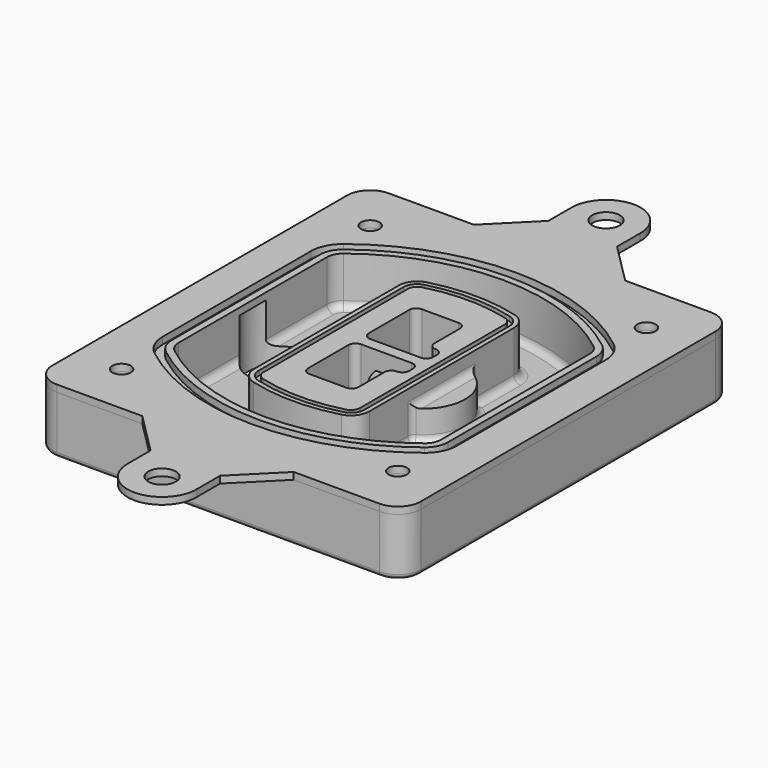
from build123d import *

# Parameters (mm, degrees)
F0_R      = 4
F1_DEPTH  = 25
F2_DEPTH  = 3
F3_DEPTH  = 18
F5_DEPTH  = 21
F6_DEPTH  = 2
F8_DEPTH  = 20
F9_DEPTH  = 16
F10_DEPTH = 25
F7_R      = 6
F7_R_2    = 4
F11_DEPTH = 6
F13_DEPTH = 9
F14_R     = 3
F15_R     = 2
F0_R_2    = 6
F16_DEPTH = 3


with BuildPart() as f1:
    # F0 (on Top) → F1 (new body)
    with BuildSketch(Plane.XY):
        with BuildLine():
            ThreePointArc((-80, -80), (-77.0710678119, -87.0710678119), (-70, -90))
            Line((-70, -90), (-32.9854514246, -90))
            Line((-32.9854514246, -90), (32.7771371112, -90))
            Line((32.7771371112, -90), (70, -90))
            ThreePointArc((70, -90), (77.0710678119, -87.0710678119), (80, -80))
            Line((80, -80), (80, 80))
            ThreePointArc((80, 80), (77.0710678119, 87.0710678119), (70, 90))
            Line((70, 90), (32.7771371112, 90))
            Line((32.7771371112, 90), (-32.9854514246, 90))
            Line((-32.9854514246, 90), (-70, 90))
            ThreePointArc((-70, 90), (-77.0710678119, 87.0710678119), (-80, 80))
            Line((-80, 80), (-80, -80))
        make_face()
        with Locations((-60, -67.5)):
            Circle(F0_R, mode=Mode.SUBTRACT)
        with Locations((60, -67.5)):
            Circle(F0_R, mode=Mode.SUBTRACT)
        with Locations((-60, 67.5)):
            Circle(F0_R, mode=Mode.SUBTRACT)
        with BuildLine():
            ThreePointArc((-64, 40.2934422872), (-62.5820384798, 46.4328484224), (-58.6153846154, 51.3286200352))
            ThreePointArc((-58.6153846154, 51.3286200352), (0, 71.5), (58.6153846154, 51.3286200352))
            ThreePointArc((58.6153846154, 51.3286200352), (62.5820384798, 46.4328484224), (64, 40.2934422872))
            Line((64, 40.2934422872), (64, -40.2934422872))
            ThreePointArc((64, -40.2934422872), (62.5820384798, -46.4328484224), (58.6153846154, -51.3286200352))
            ThreePointArc((58.6153846154, -51.3286200352), (0, -71.5), (-58.6153846154, -51.3286200352))
            ThreePointArc((-58.6153846154, -51.3286200352), (-62.5820384798, -46.4328484224), (-64, -40.2934422872))
            Line((-64, -40.2934422872), (-64, 40.2934422872))
        make_face(mode=Mode.SUBTRACT)
        with Locations((60, 67.5)):
            Circle(F0_R, mode=Mode.SUBTRACT)
        with BuildLine():
            ThreePointArc((58.6153846154, 51.3286200352), (0, 71.5), (-58.6153846154, 51.3286200352))
            ThreePointArc((-58.6153846154, 51.3286200352), (-62.5820384798, 46.4328484224), (-64, 40.2934422872))
            Line((-64, 40.2934422872), (-64, -40.2934422872))
            ThreePointArc((-64, -40.2934422872), (-62.5820384798, -46.4328484224), (-58.6153846154, -51.3286200352))
            ThreePointArc((-58.6153846154, -51.3286200352), (0, -71.5), (58.6153846154, -51.3286200352))
            ThreePointArc((58.6153846154, -51.3286200352), (62.5820384798, -46.4328484224), (64, -40.2934422872))
            Line((64, -40.2934422872), (64, 40.2934422872))
            ThreePointArc((64, 40.2934422872), (62.5820384798, 46.4328484224), (58.6153846154, 51.3286200352))
        make_face()
        with BuildLine():
            Line((-60, -40.2934422872), (-60, 40.2934422872))
            ThreePointArc((-60, 40.2934422872), (-58.9871703427, 44.6787323838), (-56.1538461538, 48.1757121072))
            ThreePointArc((-56.1538461538, 48.1757121072), (0, 67.5), (56.1538461538, 48.1757121072))
            ThreePointArc((56.1538461538, 48.1757121072), (58.9871703427, 44.6787323838), (60, 40.2934422872))
            Line((60, 40.2934422872), (60, -40.2934422872))
            ThreePointArc((60, -40.2934422872), (58.9871703427, -44.6787323838), (56.1538461538, -48.1757121072))
            ThreePointArc((56.1538461538, -48.1757121072), (0, -67.5), (-56.1538461538, -48.1757121072))
            ThreePointArc((-56.1538461538, -48.1757121072), (-58.9871703427, -44.6787323838), (-60, -40.2934422872))
        make_face(mode=Mode.SUBTRACT)
        with BuildLine():
            ThreePointArc((-56.1538461538, 48.1757121072), (-58.9871703427, 44.6787323838), (-60, 40.2934422872))
            Line((-60, 40.2934422872), (-60, -40.2934422872))
            ThreePointArc((-60, -40.2934422872), (-58.9871703427, -44.6787323838), (-56.1538461538, -48.1757121072))
            ThreePointArc((-56.1538461538, -48.1757121072), (0, -67.5), (56.1538461538, -48.1757121072))
            ThreePointArc((56.1538461538, -48.1757121072), (58.9871703427, -44.6787323838), (60, -40.2934422872))
            Line((60, -40.2934422872), (60, 40.2934422872))
            ThreePointArc((60, 40.2934422872), (58.9871703427, 44.6787323838), (56.1538461538, 48.1757121072))
            ThreePointArc((56.1538461538, 48.1757121072), (0, 67.5), (-56.1538461538, 48.1757121072))
        make_face()
        with BuildLine():
            ThreePointArc((54.3076923077, 45.8110311612), (56.2910192399, 43.3631453548), (57, 40.2934422872))
            Line((57, 40.2934422872), (57, -40.2934422872))
            ThreePointArc((57, -40.2934422872), (56.2910192399, -43.3631453548), (54.3076923077, -45.8110311612))
            ThreePointArc((54.3076923077, -45.8110311612), (0, -64.5), (-54.3076923077, -45.8110311612))
            ThreePointArc((-54.3076923077, -45.8110311612), (-56.2910192399, -43.3631453548), (-57, -40.2934422872))
            Line((-57, -40.2934422872), (-57, 40.2934422872))
            ThreePointArc((-57, 40.2934422872), (-56.2910192399, 43.3631453548), (-54.3076923077, 45.8110311612))
            ThreePointArc((-54.3076923077, 45.8110311612), (0, 64.5), (54.3076923077, 45.8110311612))
        make_face(mode=Mode.SUBTRACT)
        with BuildLine():
            Line((57, -40.2934422872), (57, 40.2934422872))
            ThreePointArc((57, 40.2934422872), (56.2910192399, 43.3631453548), (54.3076923077, 45.8110311612))
            ThreePointArc((54.3076923077, 45.8110311612), (0, 64.5), (-54.3076923077, 45.8110311612))
            ThreePointArc((-54.3076923077, 45.8110311612), (-56.2910192399, 43.3631453548), (-57, 40.2934422872))
            Line((-57, 40.2934422872), (-57, -40.2934422872))
            ThreePointArc((-57, -40.2934422872), (-56.2910192399, -43.3631453548), (-54.3076923077, -45.8110311612))
            ThreePointArc((-54.3076923077, -45.8110311612), (0, -64.5), (54.3076923077, -45.8110311612))
            ThreePointArc((54.3076923077, -45.8110311612), (56.2910192399, -43.3631453548), (57, -40.2934422872))
        make_face()
    extrude(amount=-F1_DEPTH)

    # F0 (on Top) → F2 (join)
    with BuildSketch(Plane.XY):
        with BuildLine():
            ThreePointArc((-56.1538461538, 48.1757121072), (-58.9871703427, 44.6787323838), (-60, 40.2934422872))
            Line((-60, 40.2934422872), (-60, -40.2934422872))
            ThreePointArc((-60, -40.2934422872), (-58.9871703427, -44.6787323838), (-56.1538461538, -48.1757121072))
            ThreePointArc((-56.1538461538, -48.1757121072), (0, -67.5), (56.1538461538, -48.1757121072))
            ThreePointArc((56.1538461538, -48.1757121072), (58.9871703427, -44.6787323838), (60, -40.2934422872))
            Line((60, -40.2934422872), (60, 40.2934422872))
            ThreePointArc((60, 40.2934422872), (58.9871703427, 44.6787323838), (56.1538461538, 48.1757121072))
            ThreePointArc((56.1538461538, 48.1757121072), (0, 67.5), (-56.1538461538, 48.1757121072))
        make_face()
        with BuildLine():
            ThreePointArc((54.3076923077, 45.8110311612), (56.2910192399, 43.3631453548), (57, 40.2934422872))
            Line((57, 40.2934422872), (57, -40.2934422872))
            ThreePointArc((57, -40.2934422872), (56.2910192399, -43.3631453548), (54.3076923077, -45.8110311612))
            ThreePointArc((54.3076923077, -45.8110311612), (0, -64.5), (-54.3076923077, -45.8110311612))
            ThreePointArc((-54.3076923077, -45.8110311612), (-56.2910192399, -43.3631453548), (-57, -40.2934422872))
            Line((-57, -40.2934422872), (-57, 40.2934422872))
            ThreePointArc((-57, 40.2934422872), (-56.2910192399, 43.3631453548), (-54.3076923077, 45.8110311612))
            ThreePointArc((-54.3076923077, 45.8110311612), (0, 64.5), (54.3076923077, 45.8110311612))
        make_face(mode=Mode.SUBTRACT)
    extrude(amount=F2_DEPTH)

    # F0 (on Top) → F3 (cut)
    with BuildSketch(Plane.XY):
        with BuildLine():
            Line((57, -40.2934422872), (57, 40.2934422872))
            ThreePointArc((57, 40.2934422872), (56.2910192399, 43.3631453548), (54.3076923077, 45.8110311612))
            ThreePointArc((54.3076923077, 45.8110311612), (0, 64.5), (-54.3076923077, 45.8110311612))
            ThreePointArc((-54.3076923077, 45.8110311612), (-56.2910192399, 43.3631453548), (-57, 40.2934422872))
            Line((-57, 40.2934422872), (-57, -40.2934422872))
            ThreePointArc((-57, -40.2934422872), (-56.2910192399, -43.3631453548), (-54.3076923077, -45.8110311612))
            ThreePointArc((-54.3076923077, -45.8110311612), (0, -64.5), (54.3076923077, -45.8110311612))
            ThreePointArc((54.3076923077, -45.8110311612), (56.2910192399, -43.3631453548), (57, -40.2934422872))
        make_face()
    extrude(amount=-F3_DEPTH, mode=Mode.SUBTRACT)

    # F4 (on face) → F5 (join, through all)
    with BuildSketch(Plane.XY.offset(3)):
        with BuildLine():
            ThreePointArc((-25, -39.2465276821), (-23.3511545998, -44.1109737193), (-19.0842911877, -46.9702398883))
            ThreePointArc((-19.0842911877, -46.9702398883), (0, -49.5), (19.0842911877, -46.9702398883))
            ThreePointArc((19.0842911877, -46.9702398883), (23.3511545998, -44.1109737193), (25, -39.2465276821))
            Line((25, -39.2465276821), (25, 39.2465276821))
            ThreePointArc((25, 39.2465276821), (23.3511545998, 44.1109737193), (19.0842911877, 46.9702398883))
            ThreePointArc((19.0842911877, 46.9702398883), (0, 49.5), (-19.0842911877, 46.9702398883))
            ThreePointArc((-19.0842911877, 46.9702398883), (-23.3511545998, 44.1109737193), (-25, 39.2465276821))
            Line((-25, 39.2465276821), (-25, -39.2465276821))
        make_face()
        with BuildLine():
            ThreePointArc((18.5632183908, 45.0393118368), (21.7633659499, 42.89486221), (23, 39.2465276821))
            Line((23, 39.2465276821), (23, -39.2465276821))
            ThreePointArc((23, -39.2465276821), (21.7633659499, -42.89486221), (18.5632183908, -45.0393118368))
            ThreePointArc((18.5632183908, -45.0393118368), (0, -47.5), (-18.5632183908, -45.0393118368))
            ThreePointArc((-18.5632183908, -45.0393118368), (-21.7633659499, -42.89486221), (-23, -39.2465276821))
            Line((-23, -39.2465276821), (-23, 39.2465276821))
            ThreePointArc((-23, 39.2465276821), (-21.7633659499, 42.89486221), (-18.5632183908, 45.0393118368))
            ThreePointArc((-18.5632183908, 45.0393118368), (0, 47.5), (18.5632183908, 45.0393118368))
        make_face(mode=Mode.SUBTRACT)
        with BuildLine():
            Line((23, -39.2465276821), (23, 39.2465276821))
            ThreePointArc((23, 39.2465276821), (21.7633659499, 42.89486221), (18.5632183908, 45.0393118368))
            ThreePointArc((18.5632183908, 45.0393118368), (0, 47.5), (-18.5632183908, 45.0393118368))
            ThreePointArc((-18.5632183908, 45.0393118368), (-21.7633659499, 42.89486221), (-23, 39.2465276821))
            Line((-23, 39.2465276821), (-23, -39.2465276821))
            ThreePointArc((-23, -39.2465276821), (-21.7633659499, -42.89486221), (-18.5632183908, -45.0393118368))
            ThreePointArc((-18.5632183908, -45.0393118368), (0, -47.5), (18.5632183908, -45.0393118368))
            ThreePointArc((18.5632183908, -45.0393118368), (21.7633659499, -42.89486221), (23, -39.2465276821))
        make_face()
        with BuildLine():
            ThreePointArc((18.0421455939, 43.1083837852), (20.1755772999, 41.6787507007), (21, 39.2465276821))
            Line((21, 39.2465276821), (21, -39.2465276821))
            ThreePointArc((21, -39.2465276821), (20.1755772999, -41.6787507007), (18.0421455939, -43.1083837852))
            ThreePointArc((18.0421455939, -43.1083837852), (0, -45.5), (-18.0421455939, -43.1083837852))
            ThreePointArc((-18.0421455939, -43.1083837852), (-20.1755772999, -41.6787507007), (-21, -39.2465276821))
            Line((-21, -39.2465276821), (-21, 39.2465276821))
            ThreePointArc((-21, 39.2465276821), (-20.1755772999, 41.6787507007), (-18.0421455939, 43.1083837852))
            ThreePointArc((-18.0421455939, 43.1083837852), (0, 45.5), (18.0421455939, 43.1083837852))
        make_face(mode=Mode.SUBTRACT)
        with BuildLine():
            Line((21, -39.2465276821), (21, 39.2465276821))
            ThreePointArc((21, 39.2465276821), (20.1755772999, 41.6787507007), (18.0421455939, 43.1083837852))
            ThreePointArc((18.0421455939, 43.1083837852), (0, 45.5), (-18.0421455939, 43.1083837852))
            ThreePointArc((-18.0421455939, 43.1083837852), (-20.1755772999, 41.6787507007), (-21, 39.2465276821))
            Line((-21, 39.2465276821), (-21, -39.2465276821))
            ThreePointArc((-21, -39.2465276821), (-20.1755772999, -41.6787507007), (-18.0421455939, -43.1083837852))
            ThreePointArc((-18.0421455939, -43.1083837852), (0, -45.5), (18.0421455939, -43.1083837852))
            ThreePointArc((18.0421455939, -43.1083837852), (20.1755772999, -41.6787507007), (21, -39.2465276821))
        make_face()
        with BuildLine():
            Line((-8, -2.5), (14, -2.5))
            ThreePointArc((14, -2.5), (16.1213203436, -3.3786796564), (17, -5.5))
            Line((17, -5.5), (17, -7.5))
            ThreePointArc((17, -7.5), (16.1213203436, -9.6213203436), (14, -10.5))
            ThreePointArc((14, -10.5), (11.8786796564, -11.3786796564), (11, -13.5))
            Line((11, -13.5), (11, -27.5))
            ThreePointArc((11, -27.5), (10.1213203436, -29.6213203436), (8, -30.5))
            Line((8, -30.5), (-8, -30.5))
            ThreePointArc((-8, -30.5), (-10.1213203436, -29.6213203436), (-11, -27.5))
            Line((-11, -27.5), (-11, -5.5))
            ThreePointArc((-11, -5.5), (-10.1213203436, -3.3786796564), (-8, -2.5))
        make_face(mode=Mode.SUBTRACT)
        with BuildLine():
            ThreePointArc((-8, 2.5), (-10.1213203436, 3.3786796564), (-11, 5.5))
            Line((-11, 5.5), (-11, 27.5))
            ThreePointArc((-11, 27.5), (-10.1213203436, 29.6213203436), (-8, 30.5))
            Line((-8, 30.5), (8, 30.5))
            ThreePointArc((8, 30.5), (10.1213203436, 29.6213203436), (11, 27.5))
            Line((11, 27.5), (11, 13.5))
            ThreePointArc((11, 13.5), (11.8786796564, 11.3786796564), (14, 10.5))
            ThreePointArc((14, 10.5), (16.1213203436, 9.6213203436), (17, 7.5))
            Line((17, 7.5), (17, 5.5))
            ThreePointArc((17, 5.5), (16.1213203436, 3.3786796564), (14, 2.5))
            Line((14, 2.5), (-8, 2.5))
        make_face(mode=Mode.SUBTRACT)
    extrude(amount=-F5_DEPTH)

    # F4 (on face) → F6 (cut)
    with BuildSketch(Plane.XY.offset(3)):
        with BuildLine():
            Line((23, -39.2465276821), (23, 39.2465276821))
            ThreePointArc((23, 39.2465276821), (21.7633659499, 42.89486221), (18.5632183908, 45.0393118368))
            ThreePointArc((18.5632183908, 45.0393118368), (0, 47.5), (-18.5632183908, 45.0393118368))
            ThreePointArc((-18.5632183908, 45.0393118368), (-21.7633659499, 42.89486221), (-23, 39.2465276821))
            Line((-23, 39.2465276821), (-23, -39.2465276821))
            ThreePointArc((-23, -39.2465276821), (-21.7633659499, -42.89486221), (-18.5632183908, -45.0393118368))
            ThreePointArc((-18.5632183908, -45.0393118368), (0, -47.5), (18.5632183908, -45.0393118368))
            ThreePointArc((18.5632183908, -45.0393118368), (21.7633659499, -42.89486221), (23, -39.2465276821))
        make_face()
        with BuildLine():
            ThreePointArc((18.0421455939, 43.1083837852), (20.1755772999, 41.6787507007), (21, 39.2465276821))
            Line((21, 39.2465276821), (21, -39.2465276821))
            ThreePointArc((21, -39.2465276821), (20.1755772999, -41.6787507007), (18.0421455939, -43.1083837852))
            ThreePointArc((18.0421455939, -43.1083837852), (0, -45.5), (-18.0421455939, -43.1083837852))
            ThreePointArc((-18.0421455939, -43.1083837852), (-20.1755772999, -41.6787507007), (-21, -39.2465276821))
            Line((-21, -39.2465276821), (-21, 39.2465276821))
            ThreePointArc((-21, 39.2465276821), (-20.1755772999, 41.6787507007), (-18.0421455939, 43.1083837852))
            ThreePointArc((-18.0421455939, 43.1083837852), (0, 45.5), (18.0421455939, 43.1083837852))
        make_face(mode=Mode.SUBTRACT)
    extrude(amount=-F6_DEPTH, mode=Mode.SUBTRACT)

    # F7 (on face) → F8 (join)
    with BuildSketch(Plane(origin=(0, 0, -25), x_dir=(1, 0, 0), z_dir=(0, 0, -1))):
        with BuildLine():
            ThreePointArc((3.28842436, 0), (16.7567035675, 13.4682792075), (30.224982775, 0))
            Line((30.224982775, 0), (35.224982775, 0))
            ThreePointArc((35.224982775, 0), (16.7567035675, 18.4682792075), (-1.71157564, 0))
            Line((-1.71157564, 0), (3.28842436, 0))
        make_face()
        with BuildLine():
            Line((3.28842436, 0), (30.224982775, 0))
            ThreePointArc((30.224982775, 0), (16.7567035675, 13.4682792075), (3.28842436, 0))
        make_face()
        with BuildLine():
            ThreePointArc((3.28842436, 0), (16.7567035675, -13.4682792075), (30.224982775, 0))
            Line((30.224982775, 0), (3.28842436, 0))
        make_face()
        with BuildLine():
            Line((35.224982775, 0), (30.224982775, 0))
            ThreePointArc((30.224982775, 0), (16.7567035675, -13.4682792075), (3.28842436, 0))
            Line((3.28842436, 0), (-1.71157564, 0))
            ThreePointArc((-1.71157564, 0), (16.7567035675, -18.4682792075), (35.224982775, 0))
        make_face()
    extrude(amount=-F8_DEPTH)

    # F7 (on face) → F9 (cut)
    with BuildSketch(Plane(origin=(0, 0, -25), x_dir=(1, 0, 0), z_dir=(0, 0, -1))):
        with BuildLine():
            Line((3.28842436, 0), (30.224982775, 0))
            ThreePointArc((30.224982775, 0), (16.7567035675, 13.4682792075), (3.28842436, 0))
        make_face()
        with BuildLine():
            ThreePointArc((3.28842436, 0), (16.7567035675, -13.4682792075), (30.224982775, 0))
            Line((30.224982775, 0), (3.28842436, 0))
        make_face()
    extrude(amount=-F9_DEPTH, mode=Mode.SUBTRACT)

    # F7 (on face) → F10 (cut)
    with BuildSketch(Plane(origin=(0, 0, -25), x_dir=(1, 0, 0), z_dir=(0, 0, -1))):
        with BuildLine():
            Line((-59.0318229325, 0), (-32.0952645175, 0))
            ThreePointArc((-32.0952645175, 0), (-45.563543725, 13.4682792075), (-59.0318229325, 0))
        make_face()
        with BuildLine():
            ThreePointArc((-59.0318229325, 0), (-45.563543725, -13.4682792075), (-32.0952645175, 0))
            Line((-32.0952645175, 0), (-59.0318229325, 0))
        make_face()
    extrude(amount=-F10_DEPTH, mode=Mode.SUBTRACT)

    # F7 (on face) → F11 (cut)
    with BuildSketch(Plane(origin=(0, 0, -25), x_dir=(1, 0, 0), z_dir=(0, 0, -1))):
        with Locations((60, -67.5)):
            Circle(F7_R)
        with Locations((60, -67.5)):
            Circle(F7_R_2, mode=Mode.SUBTRACT)
        with Locations((60, -67.5)):
            Circle(F7_R)
        with Locations((60, -67.5)):
            Circle(F7_R_2, mode=Mode.SUBTRACT)
        with Locations((-60, -67.5)):
            Circle(F7_R)
        with Locations((-60, -67.5)):
            Circle(F7_R_2, mode=Mode.SUBTRACT)
        with Locations((-60, -67.5)):
            Circle(F7_R)
        with Locations((-60, -67.5)):
            Circle(F7_R_2, mode=Mode.SUBTRACT)
        with Locations((-60, 67.5)):
            Circle(F7_R)
        with Locations((-60, 67.5)):
            Circle(F7_R_2, mode=Mode.SUBTRACT)
        with Locations((-60, 67.5)):
            Circle(F7_R)
        with Locations((-60, 67.5)):
            Circle(F7_R_2, mode=Mode.SUBTRACT)
        with Locations((60, 67.5)):
            Circle(F7_R)
        with Locations((60, 67.5)):
            Circle(F7_R_2, mode=Mode.SUBTRACT)
        with Locations((60, 67.5)):
            Circle(F7_R)
        with Locations((60, 67.5)):
            Circle(F7_R_2, mode=Mode.SUBTRACT)
    extrude(amount=-F11_DEPTH, mode=Mode.SUBTRACT)

    # F12 (on face) → F13 (cut, through all)
    with BuildSketch(Plane(origin=(0, 0, -9), x_dir=(1, 0, 0), z_dir=(0, 0, -1))):
        with BuildLine():
            Line((11, 13.5), (11, 17.5481537753))
            ThreePointArc((11, 17.5481537753), (2.5696536419, 11.8239143813), (-1.5415842455, 2.5))
            Line((-1.5415842455, 2.5), (3.5224848595, 2.5))
            ThreePointArc((3.5224848595, 2.5), (6.1857188154, 8.3455872281), (11.2536447004, 12.2927168648))
            ThreePointArc((11.2536447004, 12.2927168648), (11.0640958889, 12.8831798879), (11, 13.5))
        make_face()
        with BuildLine():
            ThreePointArc((11.2536447004, -12.2927168648), (6.1857188154, -8.3455872281), (3.5224848595, -2.5))
            Line((3.5224848595, -2.5), (-1.5415842455, -2.5))
            ThreePointArc((-1.5415842455, -2.5), (2.5696536419, -11.8239143813), (11, -17.5481537753))
            Line((11, -17.5481537753), (11, -13.5))
            ThreePointArc((11, -13.5), (11.0640958889, -12.8831798879), (11.2536447004, -12.2927168648))
        make_face()
        with BuildLine():
            ThreePointArc((11.2536447004, 12.2927168648), (6.1857188154, 8.3455872281), (3.5224848595, 2.5))
            Line((3.5224848595, 2.5), (14, 2.5))
            ThreePointArc((14, 2.5), (16.1213203436, 3.3786796564), (17, 5.5))
            Line((17, 5.5), (17, 7.5))
            ThreePointArc((17, 7.5), (16.1213203436, 9.6213203436), (14, 10.5))
            ThreePointArc((14, 10.5), (12.3601599782, 10.9878446101), (11.2536447004, 12.2927168648))
        make_face()
        with BuildLine():
            Line((14, -2.5), (3.5224848595, -2.5))
            ThreePointArc((3.5224848595, -2.5), (6.1857188154, -8.3455872281), (11.2536447004, -12.2927168648))
            ThreePointArc((11.2536447004, -12.2927168648), (12.3601599782, -10.9878446101), (14, -10.5))
            ThreePointArc((14, -10.5), (16.1213203436, -9.6213203436), (17, -7.5))
            Line((17, -7.5), (17, -5.5))
            ThreePointArc((17, -5.5), (16.1213203436, -3.3786796564), (14, -2.5))
        make_face()
    extrude(amount=F13_DEPTH, mode=Mode.SUBTRACT)

    # F14
    f14_edges = [f1.edges().sort_by_distance(p)[0] for p in [
        (-57, -23.703476, -18),
        (-57, 23.703476, -18),
        (25, 0, -5),
        (25, 16.526506, -11.5),
        (25, -16.526506, -11.5),
        (25, -27.886517, -18),
        (35.224983, 0, -18),
    ]]
    fillet(f14_edges, radius=F14_R)

    # F15
    f15_edges = [f1.edges().sort_by_distance(p)[0] for p in [
        (0, -90, -25),
    ]]
    fillet(f15_edges, radius=F15_R)


with BuildPart() as f16:
    # F0 (on Top) → F16 (new body, through all)
    with BuildSketch(Plane.XY):
        with BuildLine():
            ThreePointArc((-80, -80), (-77.0710678119, -87.0710678119), (-70, -90))
            Line((-70, -90), (-32.9854514246, -90))
            Line((-32.9854514246, -90), (32.7771371112, -90))
            Line((32.7771371112, -90), (70, -90))
            ThreePointArc((70, -90), (77.0710678119, -87.0710678119), (80, -80))
            Line((80, -80), (80, 80))
            ThreePointArc((80, 80), (77.0710678119, 87.0710678119), (70, 90))
            Line((70, 90), (32.7771371112, 90))
            Line((32.7771371112, 90), (-32.9854514246, 90))
            Line((-32.9854514246, 90), (-70, 90))
            ThreePointArc((-70, 90), (-77.0710678119, 87.0710678119), (-80, 80))
            Line((-80, 80), (-80, -80))
        make_face()
        with Locations((-60, -67.5)):
            Circle(F0_R, mode=Mode.SUBTRACT)
        with Locations((60, -67.5)):
            Circle(F0_R, mode=Mode.SUBTRACT)
        with Locations((-60, 67.5)):
            Circle(F0_R, mode=Mode.SUBTRACT)
        with BuildLine():
            ThreePointArc((-64, 40.2934422872), (-62.5820384798, 46.4328484224), (-58.6153846154, 51.3286200352))
            ThreePointArc((-58.6153846154, 51.3286200352), (0, 71.5), (58.6153846154, 51.3286200352))
            ThreePointArc((58.6153846154, 51.3286200352), (62.5820384798, 46.4328484224), (64, 40.2934422872))
            Line((64, 40.2934422872), (64, -40.2934422872))
            ThreePointArc((64, -40.2934422872), (62.5820384798, -46.4328484224), (58.6153846154, -51.3286200352))
            ThreePointArc((58.6153846154, -51.3286200352), (0, -71.5), (-58.6153846154, -51.3286200352))
            ThreePointArc((-58.6153846154, -51.3286200352), (-62.5820384798, -46.4328484224), (-64, -40.2934422872))
            Line((-64, -40.2934422872), (-64, 40.2934422872))
        make_face(mode=Mode.SUBTRACT)
        with Locations((60, 67.5)):
            Circle(F0_R, mode=Mode.SUBTRACT)
        with BuildLine():
            Line((32.7771371112, -90), (-32.9854514246, -90))
            Line((-32.9854514246, -90), (-14.9854514246, -108))
            Line((-14.9854514246, -108), (-14.9854514246, -120.5385855576))
            ThreePointArc((-14.9854514246, -120.5385855576), (0.1323330597, -135.538123111), (15.0126988174, -120.3030238514))
            Line((15.0126988174, -120.3030238514), (15.0126988174, -107.7644382938))
            Line((15.0126988174, -107.7644382938), (32.7771371112, -90))
        make_face()
        with Locations((0.0145485754, -120.5385855576)):
            Circle(F0_R_2, mode=Mode.SUBTRACT)
        with BuildLine():
            Line((-14.9854514246, 108), (-32.9854514246, 90))
            Line((-32.9854514246, 90), (32.7771371112, 90))
            Line((32.7771371112, 90), (15.0126988174, 107.7644382938))
            Line((15.0126988174, 107.7644382938), (15.0126988174, 120.3030238514))
            ThreePointArc((15.0126988174, 120.3030238514), (0.1323330597, 135.538123111), (-14.9854514246, 120.5385855576))
            Line((-14.9854514246, 120.5385855576), (-14.9854514246, 108))
        make_face()
        with Locations((0.0145485754, 120.5385855576)):
            Circle(F0_R_2, mode=Mode.SUBTRACT)
    extrude(amount=F16_DEPTH)


solid = Compound([f1.part, f16.part])
